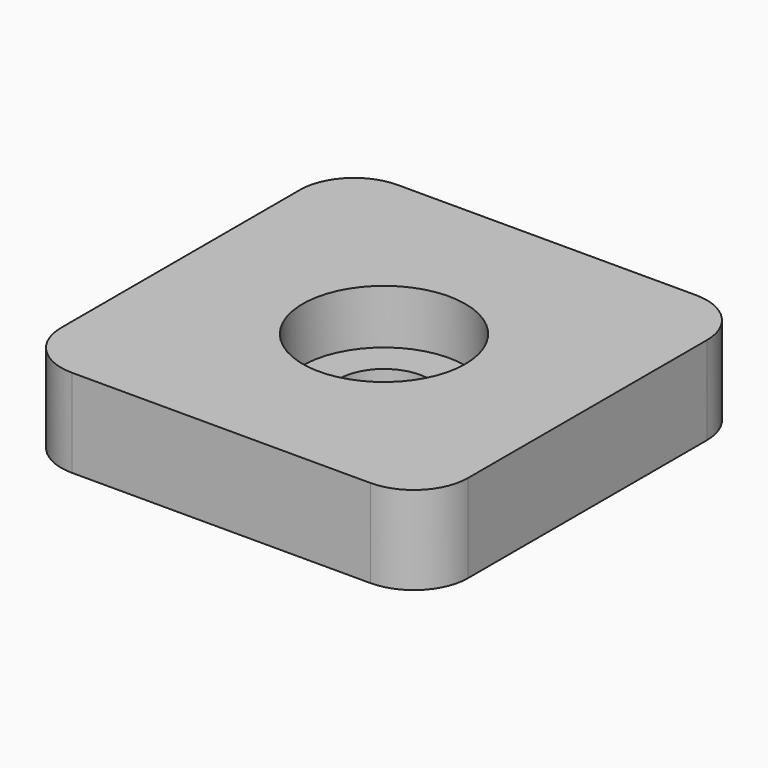
from build123d import *

# Parameters (mm, degrees)
F0_W           = 38.1
F0_H           = 38.1
F1_DEPTH       = 8.255
F2_R           = 5.08
F3_D           = 8.4328
F3_CBORE_D     = 15.24
F3_CBORE_DEPTH = 5.08


with BuildPart() as f1:
    # F0 (on Top) → F1 (new body)
    with BuildSketch(Plane.XY):
        Rectangle(F0_W, F0_H)
    extrude(amount=-F1_DEPTH)

    # F2
    f2_edges = [f1.edges().sort_by_distance(p)[0] for p in [
        (-19.05, 19.05, -4.1275),
        (-19.05, -19.05, -4.1275),
        (19.05, -19.05, -4.1275),
        (19.05, 19.05, -4.1275),
    ]]
    fillet(f2_edges, radius=F2_R)

    # F3 (through all)
    with Locations(Plane.XY):
        with Locations((0, 0)):
            CounterBoreHole(F3_D / 2, F3_CBORE_D / 2, F3_CBORE_DEPTH)


solid = f1.part
